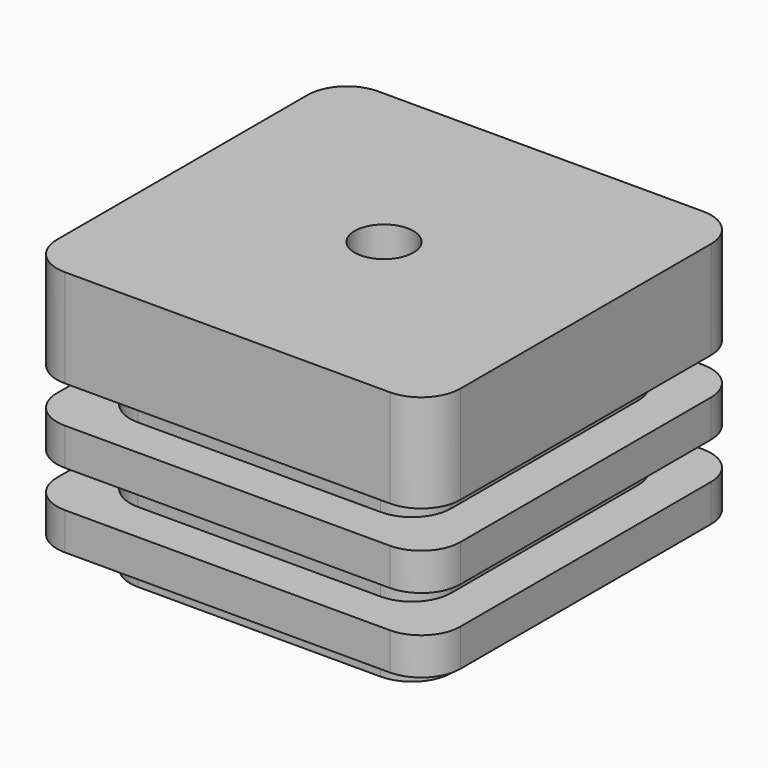
from build123d import *

# Parameters (mm, degrees)
F1_DEPTH  = 2.159
F3_DEPTH  = 2.413
F5_DEPTH  = 2.413
F7_DEPTH  = 2.413
F9_DEPTH  = 2.413
F11_DEPTH = 6.35
F14_R     = 7.5311
F15_DEPTH = 6.35
F16_R     = 5.08
F17_R     = 1.905
F18_DEPTH = 18.162


with BuildPart() as f1:
    # F0 (on Top) → F1 (new body)
    with BuildSketch(Plane.XY):
        with BuildLine():
            Line((18.288, 20.2184), (2.54, 20.2184))
            ThreePointArc((2.54, 20.2184), (0.743949, 19.474451), (0, 17.6784))
            Line((0, 17.6784), (0, 2.54))
            ThreePointArc((0, 2.54), (0.743949, 0.743949), (2.54, 0))
            Line((2.54, 0), (18.288, 0))
            ThreePointArc((18.288, 0), (20.084051, 0.743949), (20.828, 2.54))
            Line((20.828, 2.54), (20.828, 17.6784))
            ThreePointArc((20.828, 17.6784), (20.084051, 19.474451), (18.288, 20.2184))
        make_face()
    extrude(amount=F1_DEPTH)

    # F2 (on face) → F3 (join)
    with BuildSketch(Plane.XY.offset(2.159)):
        with BuildLine():
            Line((20.955, 22.8092), (-0.127, 22.8092))
            ThreePointArc((-0.127, 22.8092), (-1.923051, 22.065251), (-2.667, 20.2692))
            Line((-2.667, 20.2692), (-2.667, -0.0508))
            ThreePointArc((-2.667, -0.0508), (-1.923051, -1.846851), (-0.127, -2.5908))
            Line((-0.127, -2.5908), (20.955, -2.5908))
            ThreePointArc((20.955, -2.5908), (22.751051, -1.846851), (23.495, -0.0508))
            Line((23.495, -0.0508), (23.495, 20.2692))
            ThreePointArc((23.495, 20.2692), (22.751051, 22.065251), (20.955, 22.8092))
        make_face()
    extrude(amount=F3_DEPTH)



with BuildPart() as f5:
    # F4 (on face) → F5 (new body)
    with BuildSketch(Plane.XY.offset(9.398)):
        with BuildLine():
            ThreePointArc((0, 2.54), (0.743949, 0.743949), (2.54, 0))
            Line((2.54, 0), (18.288, 0))
            ThreePointArc((18.288, 0), (20.084051, 0.743949), (20.828, 2.54))
            Line((20.828, 2.54), (20.828, 17.6784))
            ThreePointArc((20.828, 17.6784), (20.084051, 19.474451), (18.288, 20.2184))
            Line((18.288, 20.2184), (2.54, 20.2184))
            ThreePointArc((2.54, 20.2184), (0.743949, 19.474451), (0, 17.6784))
            Line((0, 17.6784), (0, 2.54))
        make_face()
    extrude(amount=F5_DEPTH)

    # F6 (on face) → F7 (join)
    with BuildSketch(Plane.XY.offset(6.985)):
        with BuildLine():
            Line((-2.667, 20.2692), (-2.667, -0.0508))
            ThreePointArc((-2.667, -0.0508), (-1.923051, -1.846851), (-0.127, -2.5908))
            Line((-0.127, -2.5908), (20.955, -2.5908))
            ThreePointArc((20.955, -2.5908), (22.751051, -1.846851), (23.495, -0.0508))
            Line((23.495, -0.0508), (23.495, 20.2692))
            ThreePointArc((23.495, 20.2692), (22.751051, 22.065251), (20.955, 22.8092))
            Line((20.955, 22.8092), (-0.127, 22.8092))
            ThreePointArc((-0.127, 22.8092), (-1.923051, 22.065251), (-2.667, 20.2692))
        make_face()
    extrude(amount=F7_DEPTH)


with BuildPart() as f1_1:
    add(f1.part)

    add(f5.part)  # F9 merges F5
    # F8 (on face) → F9 (join)
    with BuildSketch(Plane.XY.offset(4.572)):
        with BuildLine():
            ThreePointArc((0, 2.54), (0.743949, 0.743949), (2.54, 0))
            Line((2.54, 0), (18.288, 0))
            ThreePointArc((18.288, 0), (20.084051, 0.743949), (20.828, 2.54))
            Line((20.828, 2.54), (20.828, 17.6784))
            ThreePointArc((20.828, 17.6784), (20.084051, 19.474451), (18.288, 20.2184))
            Line((18.288, 20.2184), (2.54, 20.2184))
            ThreePointArc((2.54, 20.2184), (0.743949, 19.474451), (0, 17.6784))
            Line((0, 17.6784), (0, 2.54))
        make_face()
    extrude(amount=F9_DEPTH)

    # F10 (on face) → F11 (join)
    with BuildSketch(Plane.XY.offset(11.811)):
        with BuildLine():
            Line((20.955, 22.8092), (-0.127, 22.8092))
            ThreePointArc((-0.127, 22.8092), (-1.923051, 22.065251), (-2.667, 20.2692))
            Line((-2.667, 20.2692), (-2.667, -0.0508))
            ThreePointArc((-2.667, -0.0508), (-1.923051, -1.846851), (-0.127, -2.5908))
            Line((-0.127, -2.5908), (20.955, -2.5908))
            ThreePointArc((20.955, -2.5908), (22.751051, -1.846851), (23.495, -0.0508))
            Line((23.495, -0.0508), (23.495, 20.2692))
            ThreePointArc((23.495, 20.2692), (22.751051, 22.065251), (20.955, 22.8092))
        make_face()
    extrude(amount=F11_DEPTH)

    # F14 (on face) → F15 (cut)
    with BuildSketch(Plane(origin=(0, 0, 0), x_dir=(1, 0, 0), z_dir=(0, 0, -1))):
        with Locations((10.414, -10.1092)):
            Circle(F14_R)
    extrude(amount=-F15_DEPTH, mode=Mode.SUBTRACT)

    # F16
    f16_edges = [f1_1.edges().sort_by_distance(p)[0] for p in [
        (2.8829, 10.1092, 6.35),
    ]]
    fillet(f16_edges, radius=F16_R)

    # F17 (on face) → F18 (cut, through all)
    with BuildSketch(Plane.XY.offset(18.161)):
        with Locations((10.414, 10.1092)):
            Circle(F17_R)
    extrude(amount=-F18_DEPTH, mode=Mode.SUBTRACT)


solid = f1_1.part
